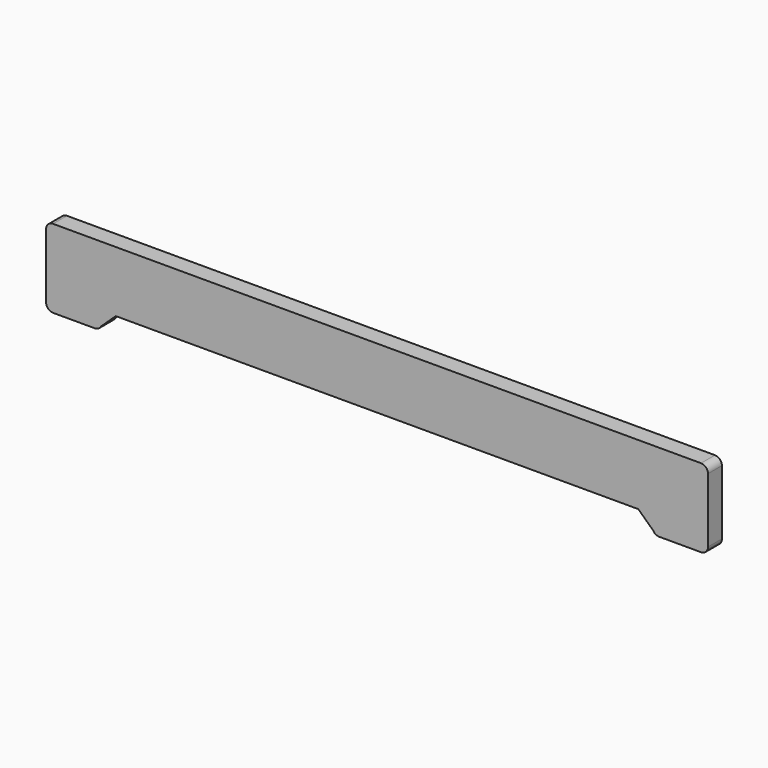
from build123d import *

# Parameters (mm, degrees)
SKETCH_W     = 380
SKETCH_H     = 45
PAD_DEPTH    = 10
FILLET_R     = 4
SKETCH001_W  = 316
SKETCH001_H  = 14.743673
POCKET_DEPTH = 10
FILLET001_R  = 4
CHAMFER_SIZE = 8


with BuildPart() as part:
    # Sketch → Pad (new body)
    with BuildSketch(Plane.XZ):
        with Locations((0, 2.5)):
            Rectangle(SKETCH_W, SKETCH_H)
    extrude(amount=PAD_DEPTH)

    # Fillet
    fillet_edges = [part.edges().sort_by_distance(p)[0] for p in [
        (-190, -5, 25),
        (-190, -5, -20),
        (190, -5, -20),
        (190, -5, 25),
    ]]
    fillet(fillet_edges, radius=FILLET_R)

    # Sketch001 (on Face5 of Fillet) → Pocket (cut)
    with BuildSketch(Plane.XZ.offset(10)):
        with Locations((0, -17.294962)):
            Rectangle(SKETCH001_W, SKETCH001_H)
    extrude(amount=-POCKET_DEPTH, mode=Mode.SUBTRACT)

    # Fillet001
    fillet001_edges = [part.edges().sort_by_distance(p)[0] for p in [
        (-158, -5, -20),
        (158, -5, -20),
    ]]
    fillet(fillet001_edges, radius=FILLET001_R)

    # Chamfer
    chamfer_edges = [part.edges().sort_by_distance(p)[0] for p in [
        (-158, -5, -9.923126),
        (158, -5, -9.923126),
    ]]
    chamfer(chamfer_edges, length=CHAMFER_SIZE)


solid = part.part
